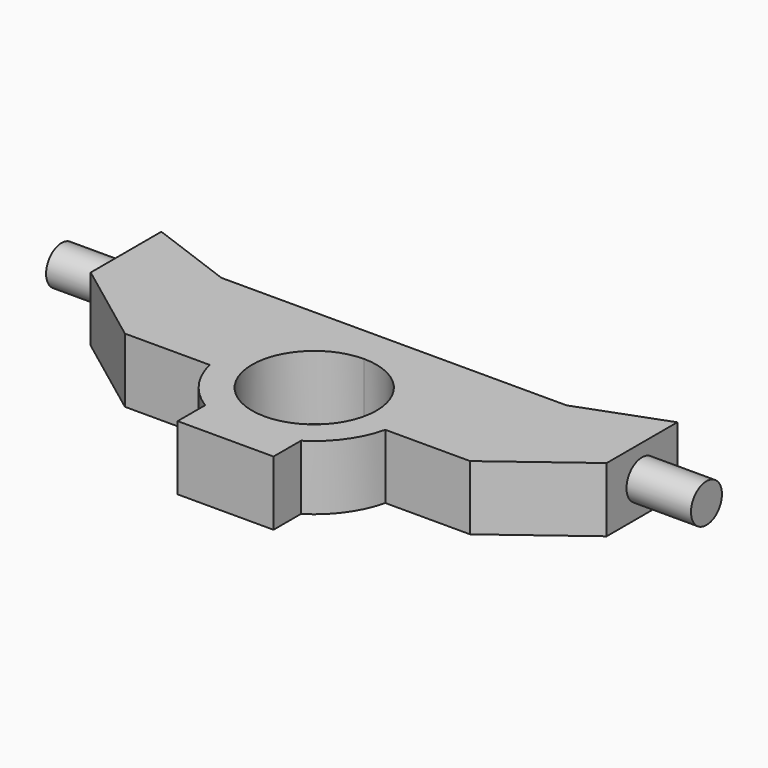
from build123d import *

# Parameters (mm, degrees)
F1_DEPTH = 25
F2_R     = 7.5
F3_DEPTH = 25


with BuildPart() as f1:
    # F0 (on Top) → F1 (new body)
    with BuildSketch(Plane.XY):
        with BuildLine():
            Line((-18.5831710696, -64.4391401045), (0, -64.4391401045))
            Line((0, -64.4391401045), (18.5831710696, -64.4391401045))
            Line((18.5831710696, -64.4391401045), (18.5831710696, -51.1375991389))
            ThreePointArc((18.5831710696, -51.1375991389), (28.4354251443, -41.8873150264), (34.0493159096, -29.594272401))
            Line((34.0493159096, -29.594272401), (66.9053312008, -29.594272401))
            Line((66.9053312008, -29.594272401), (100, -4.7732681821))
            Line((100, -4.7732681821), (100, 29.4510790908))
            Line((100, 29.4510790908), (66.9053312008, 17.1837710472))
            Line((66.9053312008, 17.1837710472), (0, 17.1837710472))
            Line((0, 17.1837710472), (-66.9053312008, 17.1837710472))
            Line((-66.9053312008, 17.1837710472), (-100, 29.4510790908))
            Line((-100, 29.4510790908), (-100, -4.7732681821))
            Line((-100, -4.7732681821), (-66.9053312008, -29.594272401))
            Line((-66.9053312008, -29.594272401), (-34.0493159096, -29.594272401))
            ThreePointArc((-34.0493159096, -29.594272401), (-28.4354251443, -41.8873150264), (-18.5831710696, -51.1375991389))
            Line((-18.5831710696, -51.1375991389), (-18.5831710696, -64.4391401045))
        make_face()
        with BuildLine():
            ThreePointArc((0, 2.6473924518), (24.120664224, -21.4732717723), (0, -45.5939359963))
            ThreePointArc((0, -45.5939359963), (-24.120664224, -21.4732717723), (0, 2.6473924518))
        make_face(mode=Mode.SUBTRACT)
    extrude(amount=F1_DEPTH)

    # F2 (on face) → F3 (join)
    with BuildSketch(Plane(origin=(-100, 0, 0), x_dir=(0, -1, 0), z_dir=(-1, 0, 0))):
        with Locations((-12.3389054544, 12.5)):
            Circle(F2_R)
    extrude(amount=F3_DEPTH)

    # F4: F1 across plane


with BuildPart() as f1_1:
    add(f1.part)
    add(f1.part.mirror(Plane.YZ))


solid = f1_1.part
